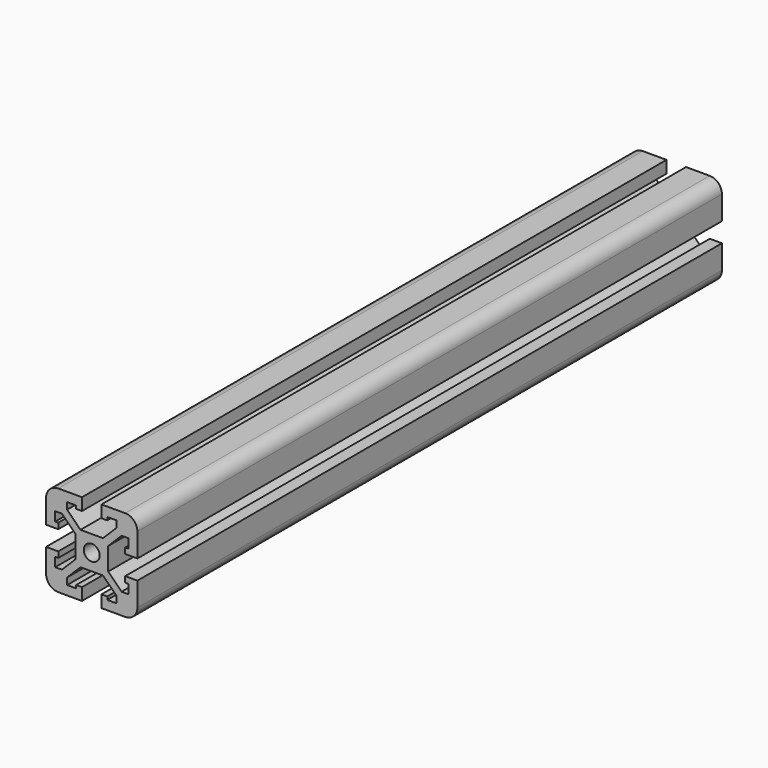
from build123d import *

# Parameters (mm, degrees)
F3_DEPTH = 304.8
F2_R     = 3.302
F4_DEPTH = 304.801
F5_R     = 5.08


with BuildPart() as f3:
    # F1 (on Front) → F3 (new body)
    with BuildSketch(Plane.XZ):
        Polygon((19.05, 19.05), (4.064, 19.05), (4.064, 13.97), (6.477, 13.97), (6.477, 15.24), (10.287, 15.24), (10.287, 13.97), (10.287, 12.442261), (4.702739, 6.858), (4.064, 6.858), (-4.064, 6.858), (-4.702739, 6.858), (-10.287, 12.442261), (-10.287, 13.97), (-10.287, 15.24), (-6.477, 15.24), (-6.477, 13.97), (-4.064, 13.97), (-4.064, 19.05), (-19.05, 19.05), (-19.05, 4.064), (-13.97, 4.064), (-13.97, 6.477), (-15.24, 6.477), (-15.24, 10.287), (-13.97, 10.287), (-12.442261, 10.287), (-6.858, 4.702739), (-6.858, 4.064), (-6.858, 0), (-6.858, -4.064), (-6.858, -4.702739), (-12.442261, -10.287), (-13.97, -10.287), (-15.24, -10.287), (-15.24, -6.477), (-13.97, -6.477), (-13.97, -4.064), (-19.05, -4.064), (-19.05, -19.05), (-4.064, -19.05), (-4.064, -13.97), (-6.477, -13.97), (-6.477, -15.24), (-10.287, -15.24), (-10.287, -13.97), (-10.287, -12.442261), (-4.702739, -6.858), (-4.064, -6.858), (0, -6.858), (4.064, -6.858), (4.702739, -6.858), (10.287, -12.442261), (10.287, -13.97), (10.287, -15.24), (6.477, -15.24), (6.477, -13.97), (4.064, -13.97), (4.064, -19.05), (19.05, -19.05), (19.05, -4.064), (13.97, -4.064), (13.97, -6.477), (15.24, -6.477), (15.24, -10.287), (13.97, -10.287), (12.442261, -10.287), (6.858, -4.702739), (6.858, -4.064), (6.858, 0), (6.858, 4.064), (6.858, 4.702739), (12.442261, 10.287), (13.97, 10.287), (15.24, 10.287), (15.24, 6.477), (13.97, 6.477), (13.97, 4.064), (19.05, 4.064), align=None)
    extrude(amount=F3_DEPTH)

    # F2 (on Front) → F4 (cut, through all)
    with BuildSketch(Plane.XZ):
        Circle(F2_R)
    extrude(amount=F4_DEPTH, mode=Mode.SUBTRACT)

    # F5
    f5_edges = [f3.edges().sort_by_distance(p)[0] for p in [
        (19.05, -152.4, 19.05),
        (-19.05, -152.4, 19.05),
        (19.05, -152.4, -19.05),
        (-19.05, -152.4, -19.05),
    ]]
    fillet(f5_edges, radius=F5_R)


solid = f3.part
